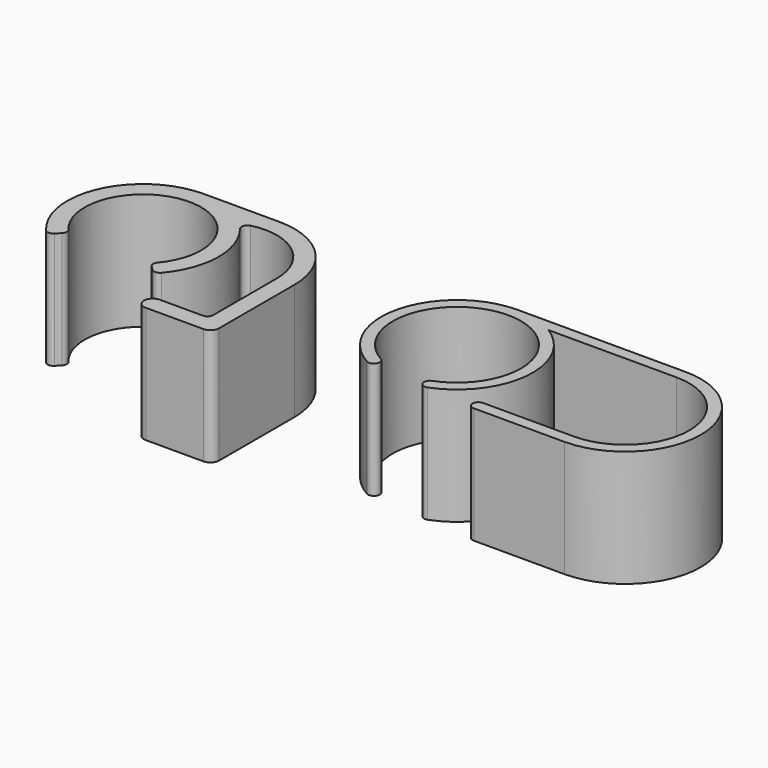
from build123d import *

# Parameters (mm, degrees)
F1_DEPTH = 10


with BuildPart() as f1:
    # F0 (on Top) → F1 (new body)
    with BuildSketch(Plane.XY):
        with BuildLine():
            ThreePointArc((-3.828886, -3.21553), (0, 5), (3.828886, -3.21553))
            ThreePointArc((3.828886, -3.21553), (3.712201, -3.557744), (3.856745, -3.889154))
            Line((3.856745, -3.889154), (4.210157, -4.245536))
            ThreePointArc((4.210157, -4.245536), (4.583948, -4.393113), (4.945619, -4.217921))
            ThreePointArc((4.945619, -4.217921), (6.49925, -0.098708), (5.071429, 4.065786))
            ThreePointArc((5.071429, 4.065786), (4.988692, 4.541068), (5.346154, 4.865043))
            ThreePointArc((5.346154, 4.865043), (9.600868, 3.922323), (11.5, 0))
            Line((11.5, 0), (11.5, -6.835121))
            ThreePointArc((11.5, -6.835121), (11.353553, -7.188674), (11, -7.335121))
            Line((11, -7.335121), (7.304424, -7.335121))
            ThreePointArc((7.304424, -7.335121), (6.554424, -8.085121), (7.304424, -8.835121))
            Line((7.304424, -8.835121), (12.25, -8.835121))
            ThreePointArc((12.25, -8.835121), (12.78033, -8.615451), (13, -8.085121))
            Line((13, -8.085121), (13, 0))
            ThreePointArc((13, 0), (11.096194, 4.596194), (6.5, 6.5))
            Line((6.5, 6.5), (0, 6.5))
            ThreePointArc((0, 6.5), (-5.901969, 2.723372), (-4.945619, -4.217921))
            ThreePointArc((-4.945619, -4.217921), (-4.583948, -4.393113), (-4.210157, -4.245536))
            Line((-4.210157, -4.245536), (-3.856745, -3.889154))
            ThreePointArc((-3.856745, -3.889154), (-3.712201, -3.557744), (-3.828886, -3.21553))
        make_face()
        with BuildLine():
            ThreePointArc((24.237214, -4.787552), (27.35023, 5.485014), (28.917861, -5.133791))
            ThreePointArc((28.917861, -5.133791), (28.63055, -5.779896), (29.276655, -6.067207))
            ThreePointArc((29.276655, -6.067207), (33.41359, -0.633049), (30.408592, 5.5))
            Line((30.408592, 5.5), (41.373112, 5.5))
            ThreePointArc((41.373112, 5.5), (46.873112, 0), (41.373112, -5.5))
            Line((41.373112, -5.5), (33.589512, -5.5))
            ThreePointArc((33.589512, -5.5), (33.089512, -6), (33.589512, -6.5))
            Line((33.589512, -6.5), (41.373112, -6.5))
            ThreePointArc((41.373112, -6.5), (47.873112, 0), (41.373112, 6.5))
            Line((41.373112, 6.5), (26.94449, 6.5))
            ThreePointArc((26.94449, 6.5), (20.65851, 1.654221), (23.744981, -5.658016))
            ThreePointArc((23.744981, -5.658016), (24.42633, -5.4689), (24.237214, -4.787552))
        make_face()
    extrude(amount=F1_DEPTH)


solid = f1.part
